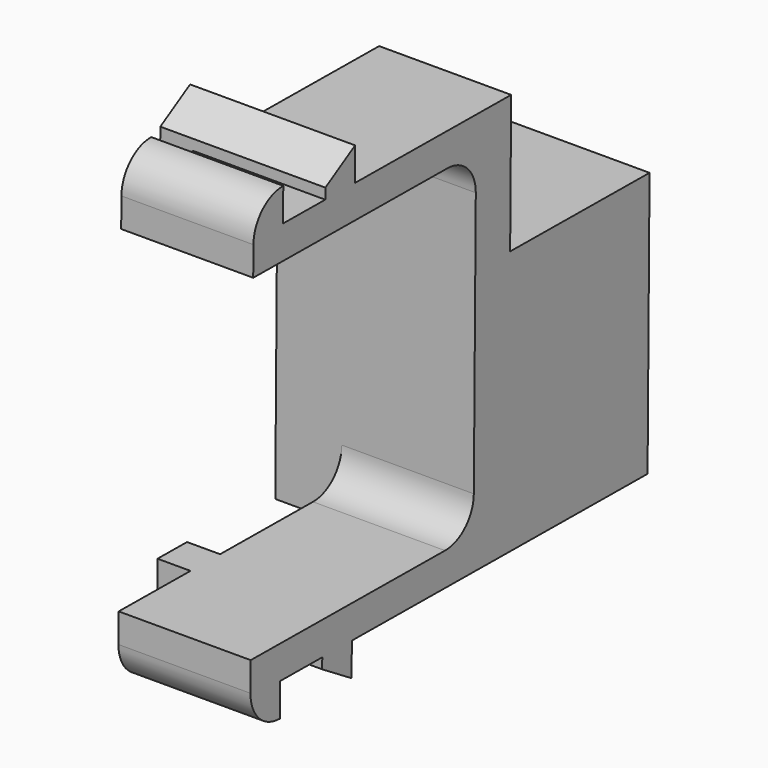
from build123d import *

# Parameters (mm, degrees)
PAD017_DEPTH              = 5
PAD020_DEPTH              = 6.25
SKETCH038_W               = 10
SKETCH038_H               = 1.65
PAD021_DEPTH              = 5
SKETCH085_W               = 10
SKETCH085_H               = 1.65
PAD054_DEPTH              = 7.5
SKETCH083_W               = 7.1
SKETCH083_H               = 1.65
PAD055_DEPTH              = 7.5
SKETCH082_W               = 10
SKETCH082_H               = 1.65
PAD056_DEPTH              = 4.6
SKETCH084_W               = 10
SKETCH084_H               = 1.65
PAD057_DEPTH              = 7.5
LINEARPATTERN019_COUNT    = 2
LINEARPATTERN019_PITCH    = 3.3
CHAMFER009_SIZE           = 1
MIRROR008_PLACEMENT_ANGLE = 90


with BuildPart() as obj1:
    # Sketch034 → Pad017 (new body)
    with BuildSketch(Plane.XY):
        with BuildLine():
            Line((-1.35, -1.8), (-1.35, 6))
            ThreePointArc((0, 7.35), (-0.954594, 6.954594), (-1.35, 6))
            Line((0, 9), (0, 7.35))
            Line((-2.6, 9), (0, 9))
            Line((-2.6, -1.8), (-2.6, 9))
            Line((-3.85, -1.8), (-2.6, -1.8))
            ThreePointArc((-3.85, -1.8), (-3.439949, -2.789949), (-2.45, -3.2))
            Line((-1.35, -3.2), (-2.45, -3.2))
            Line((-1.35, -1.8), (-1.35, -3.2))
        make_face()
    extrude(amount=PAD017_DEPTH)

    # Sketch037 → Pad020 (join)
    with BuildSketch(Plane.XY):
        Polygon((-1.35, 0.2), (-1.35, 1.6), (-2.6, 1.6), (-3.85, 1.6), (-3, 0.2), (-2.6, 0.2), align=None)
    extrude(amount=PAD020_DEPTH)


with BuildPart() as body029:
    # Mirror002: instance of _obj1
    add(obj1.part.mirror(Plane(origin=(5, 0, 0), x_dir=(0, 1, 0), z_dir=(-1, 0, 0))))

    # Fusion002: union _obj1
    add(obj1.part)


with BuildPart() as body029_1:
    # Clone003 placement: moved
    add(body029.part.moved(Location((-5, 0, 0))))

    # Sketch038 → Pad021 (new body)
    with BuildSketch(Plane.XY):
        with Locations((0, 8.175)):
            Rectangle(SKETCH038_W, SKETCH038_H)
    extrude(amount=PAD021_DEPTH)

    # Sketch085 → Pad054 (new body)
    with BuildSketch(Plane.XY):
        with Locations((2.6, 8.175)):
            Rectangle(SKETCH085_W, SKETCH085_H)
    extrude(amount=PAD054_DEPTH)

    # Sketch083 → Pad055 (join)
    with BuildSketch(Plane.XY):
        with Locations((4.05, 9.825)):
            Rectangle(SKETCH083_W, SKETCH083_H)
    pad055 = extrude(amount=PAD055_DEPTH)

    # Sketch082 → Pad056 (join)
    with BuildSketch(Plane.XY):
        with Locations((2.6, 9.825)):
            Rectangle(SKETCH082_W, SKETCH082_H)
    pad056 = extrude(amount=PAD056_DEPTH)

    # Sketch084 → Pad057 (join)
    with BuildSketch(Plane.XY):
        with Locations((2.6, 11.475)):
            Rectangle(SKETCH084_W, SKETCH084_H)
    pad057 = extrude(amount=PAD057_DEPTH)

    # LinearPattern019: Pad057, Pad056, Pad055 ×2
    with Locations(*[(0, i * LINEARPATTERN019_PITCH, 0) for i in range(1, LINEARPATTERN019_COUNT)]):
        add(pad057)
        add(pad056)
        add(pad055)

    # Chamfer009
    chamfer009_edges = [body029_1.edges().sort_by_distance(p)[0] for p in [
        (-2.4, 8.175, 7.5),
        (-2.4, 11.475, 7.5),
        (-2.4, 14.775, 7.5),
    ]]
    chamfer(chamfer009_edges, length=CHAMFER009_SIZE)


with BuildPart() as mirror008:
    # Mirror008: instance of Body029
    add(body029_1.part.mirror(Plane(origin=(-13.185052, -8.707698, 3.680996), x_dir=(-0.004692, 0.999989, 0), z_dir=(-0.999989, -0.004692, -1e-06))))


with BuildPart() as mirror008_1:
    # Mirror008 placement: moved
    add(mirror008.part.moved(Location((2.5, 0, 34.15))).rotate(Axis((2.5, 0, 34.15), (0, -1, 0)), MIRROR008_PLACEMENT_ANGLE))


solid = mirror008_1.part
